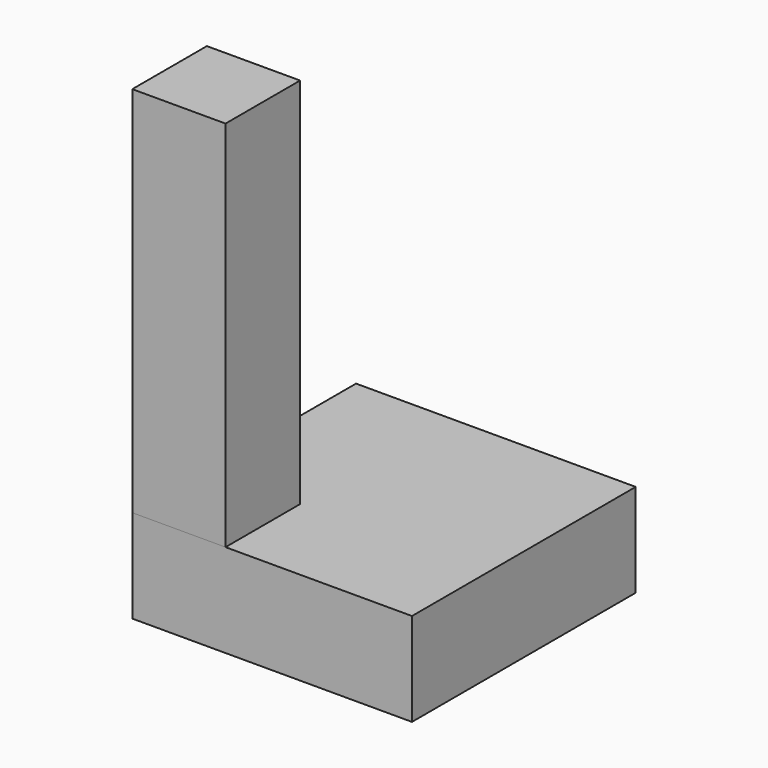
from build123d import *

# Parameters (mm, degrees)
BOX_W        = 10
BOX_H        = 10
BOX_DEPTH    = 50
BOX001_W     = 30
BOX001_H     = 30
BOX001_DEPTH = 10


with BuildPart() as cube:
    # Box → Box (new body)
    with BuildSketch(Plane.XY):
        with Locations((5, 5)):
            Rectangle(BOX_W, BOX_H)
    extrude(amount=BOX_DEPTH)


with BuildPart() as cube2:
    # Box001 → Box001 (new body)
    with BuildSketch(Plane.XY):
        with Locations((15, 15)):
            Rectangle(BOX001_W, BOX001_H)
    extrude(amount=BOX001_DEPTH)


solid = Compound([cube.part, cube2.part])
